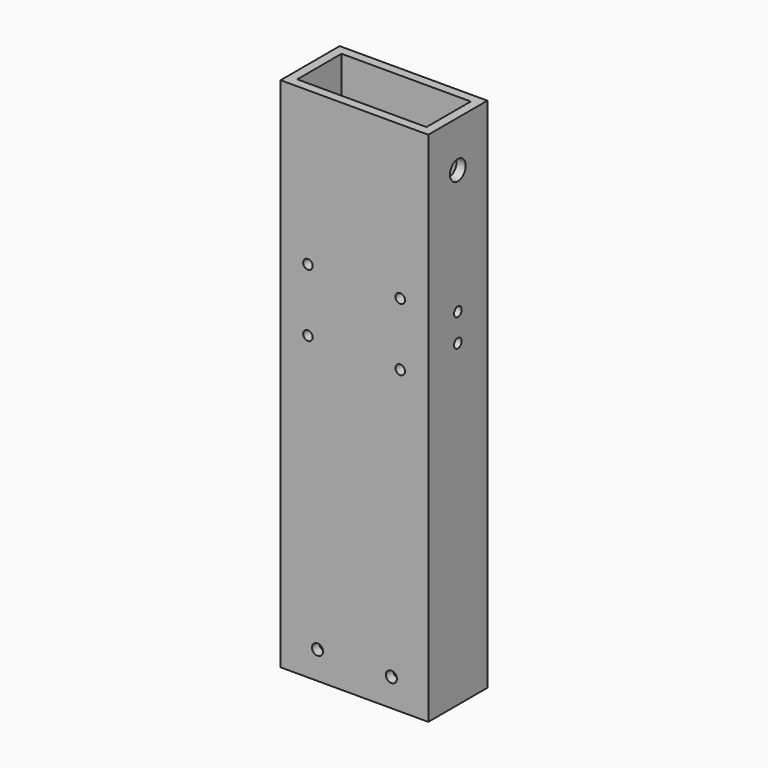
from build123d import *

# Parameters (mm, degrees)
F0_W     = 50.8
F0_H     = 25.4
F0_W_2   = 44.45
F0_H_2   = 19.05
F1_DEPTH = 177.8
F3_D     = 6.7564
F5_D     = 3.7973
F7_D     = 3.2639
F9_D     = 3.2639


with BuildPart() as f1:
    # F0 (on Top) → F1 (new body)
    with BuildSketch(Plane.XY):
        with Locations((25.4, 12.7)):
            Rectangle(F0_W, F0_H)
        with Locations((25.4, 12.7)):
            Rectangle(F0_W_2, F0_H_2, mode=Mode.SUBTRACT)
    extrude(amount=F1_DEPTH)

    # F3 (through all)
    with Locations(Plane(origin=(0, 0, 0), x_dir=(0, 1, 0), z_dir=(-1, 0, 0))):
        with Locations((12.7, -161.925)):
            Hole(F3_D / 2)

    # F5 (through all)
    with Locations(Plane.XZ):
        with Locations((12.7, 9.525), (38.1, 9.525)):
            Hole(F5_D / 2)

    # F7 (through all)
    with Locations(Plane.XZ):
        with Locations((9.398, 125.095), (41.148, 125.095), (41.148, 103.505), (9.398, 103.505)):
            Hole(F7_D / 2)

    # F9 (through all)
    with Locations(Plane.YZ.offset(50.8)):
        with Locations((12.7, 119.0625), (12.7, 109.5375)):
            Hole(F9_D / 2)


solid = f1.part
